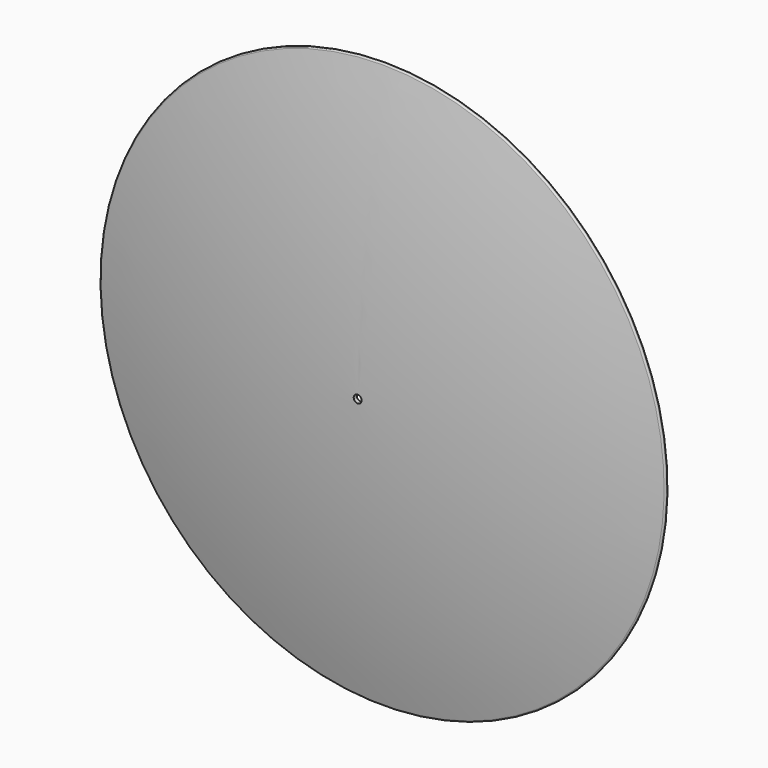
from build123d import *


with BuildPart() as f1:
    # F0 (on Right) → F1 (revolve)
    with BuildSketch(Plane.YZ):
        with BuildLine():
            ThreePointArc((1.239781, 228.321049), (0.28135, 228.15486), (-0.278364, 227.359292))
            ThreePointArc((-0.278364, 227.359292), (-18.924988, 115.949249), (-25.39516, 3.175))
            Line((-25.39516, 3.175), (-22.220145, 3.175))
            ThreePointArc((-22.220145, 3.175), (-15.769234, 115.60017), (2.819877, 226.665368))
            ThreePointArc((2.819877, 226.665368), (2.653348, 227.622285), (1.859293, 228.181659))
            Line((1.859293, 228.181659), (1.239781, 228.321049))
        make_face()
    revolve(axis=Axis((0, -12.7, 0), (0, -1, 0)))


solid = f1.part
